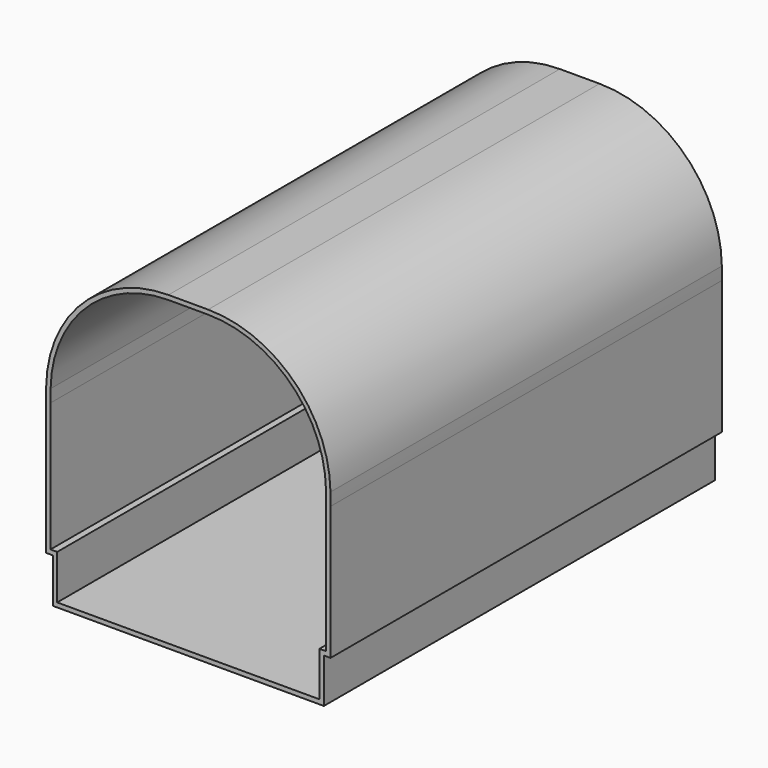
from build123d import *

# Parameters (mm, degrees)
F1_DEPTH = 2200
F2_T     = -20


with BuildPart() as f1:
    # F0 (on Front) → F1 (new body)
    with BuildSketch(Plane.XZ):
        with BuildLine():
            Line((-609.6, 200), (-609.6, 0))
            Line((-609.6, 0), (609.6, 0))
            Line((609.6, 0), (609.6, 200))
            Line((609.6, 200), (639.6, 200))
            Line((639.6, 200), (639.6, 800))
            ThreePointArc((639.6, 800), (639.5115067999, 828.4249914214), (639.2460306302, 856.8488808589))
            ThreePointArc((639.2460306302, 856.8488808589), (475.7683741962, 1241.3226830075), (89.2886751643, 1400))
            Line((89.2886751643, 1400), (-89.2886751643, 1400))
            ThreePointArc((-89.2886751643, 1400), (-475.7683741962, 1241.3226830075), (-639.2460306302, 856.8488808589))
            ThreePointArc((-639.2460306302, 856.8488808589), (-639.5115067999, 828.4249914214), (-639.6, 800))
            Line((-639.6, 800), (-639.6, 200))
            Line((-639.6, 200), (-609.6, 200))
        make_face()
    extrude(amount=F1_DEPTH)

    # F2
    f2_openings = [f1.faces().sort_by_distance(p)[0] for p in [
        (0, -2200, 658.827894),
    ]]
    offset(amount=F2_T, openings=f2_openings, kind=Kind.INTERSECTION)


solid = f1.part
